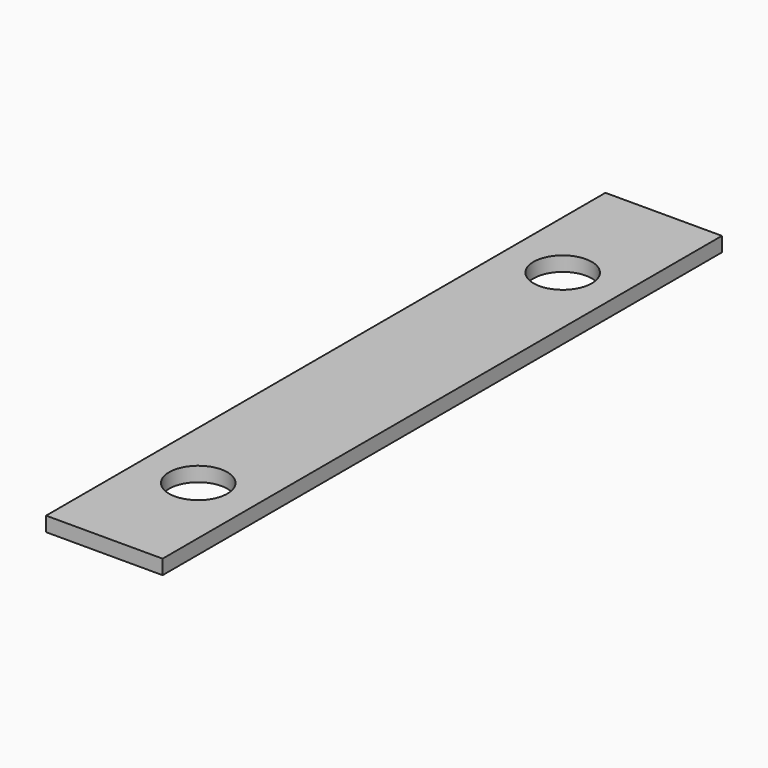
from build123d import *

# Parameters (mm, degrees)
F0_W     = 25.4
F0_H     = 152.4
F1_DEPTH = 3.175
F3_D     = 12.7
F3_DEPTH = 25.4
F3_TIP   = 3.8154649308
F4_D     = 12.7
F4_DEPTH = 25.4
F4_TIP   = 3.8154649308


with BuildPart() as f1:
    # F0 (on Top) → F1 (new body)
    with BuildSketch(Plane.XY):
        Rectangle(F0_W, F0_H)
    extrude(amount=F1_DEPTH)

    # F3
    with Locations(Plane(origin=(0, 0, 0), x_dir=(1, 0, 0), z_dir=(0, 0, -1))):
        with Locations((0, -48.6843948386)):
            Hole(F3_D / 2, depth=F3_DEPTH)
            with Locations((0, 0, -(F3_DEPTH + F3_TIP / 2))):  # 118° drill point
                Cone(0, F3_D / 2, F3_TIP, mode=Mode.SUBTRACT)

    # F4
    with Locations(Plane(origin=(0, 0, 0), x_dir=(1, 0, 0), z_dir=(0, 0, -1))):
        with Locations((0, 50.612956785)):
            Hole(F4_D / 2, depth=F4_DEPTH)
            with Locations((0, 0, -(F4_DEPTH + F4_TIP / 2))):  # 118° drill point
                Cone(0, F4_D / 2, F4_TIP, mode=Mode.SUBTRACT)


solid = f1.part
